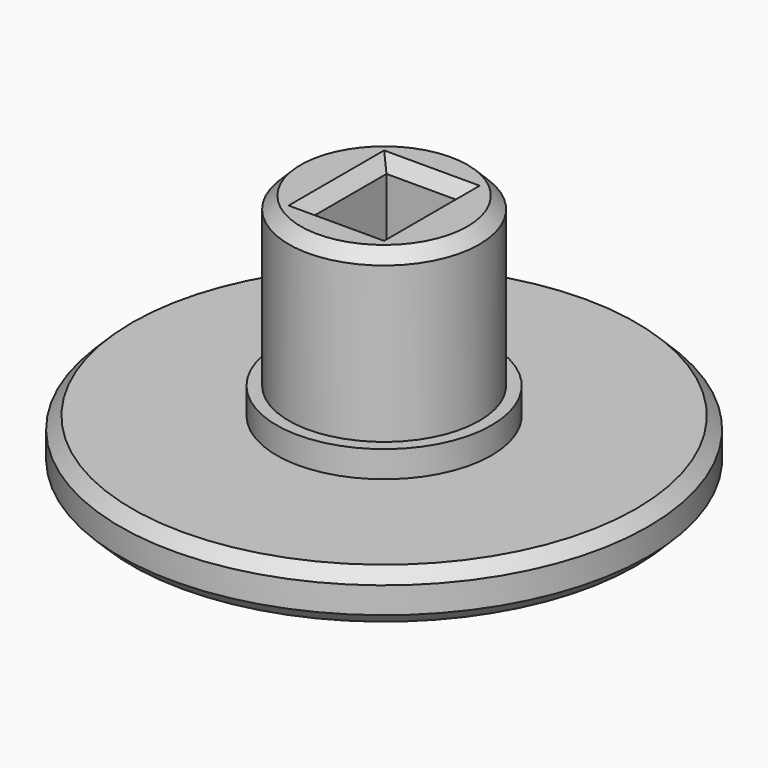
from build123d import *

# Parameters (mm, degrees)
F0_R     = 11.05
F1_DEPTH = 2.1
F2_R     = 4.5
F3_DEPTH = 1.11
F4_R     = 3.99
F5_DEPTH = 7
F6_W     = 3
F6_H     = 4
F7_DEPTH = 6
F8_W     = 4
F8_H     = 1.5
F9_DEPTH = 1.3
F10_SIZE = 0.5


with BuildPart() as f1:
    # F0 (on Top) → F1 (new body)
    with BuildSketch(Plane.XY):
        Circle(F0_R)
    extrude(amount=F1_DEPTH)

    # F2 (on face) → F3 (join)
    with BuildSketch(Plane.XY.offset(2.1)):
        Circle(F2_R)
    extrude(amount=F3_DEPTH)

    # F4 (on face) → F5 (join)
    with BuildSketch(Plane.XY.offset(3.21)):
        Circle(F4_R)
    extrude(amount=F5_DEPTH)

    # F6 (on face) → F7 (cut)
    with BuildSketch(Plane.XY.offset(10.21)):
        Rectangle(F6_W, F6_H)
    extrude(amount=-F7_DEPTH, mode=Mode.SUBTRACT)

    # F8 (on face) → F9 (cut)
    with BuildSketch(Plane.YZ.offset(-1.5)):
        with Locations((0, 4.96)):
            Rectangle(F8_W, F8_H)
    extrude(amount=-F9_DEPTH, mode=Mode.SUBTRACT)

    # F10
    f10_edges = [f1.edges().sort_by_distance(p)[0] for p in [
        (-1.5, 0, 5.71),
        (0, 2, 10.21),
        (-1.5, 0, 10.21),
        (1.5, 0, 10.21),
        (0, -2, 10.21),
        (-3.99, 0, 10.21),
        (-11.05, 0, 0),
        (-11.05, 0, 2.1),
    ]]
    chamfer(f10_edges, length=F10_SIZE)


solid = f1.part
